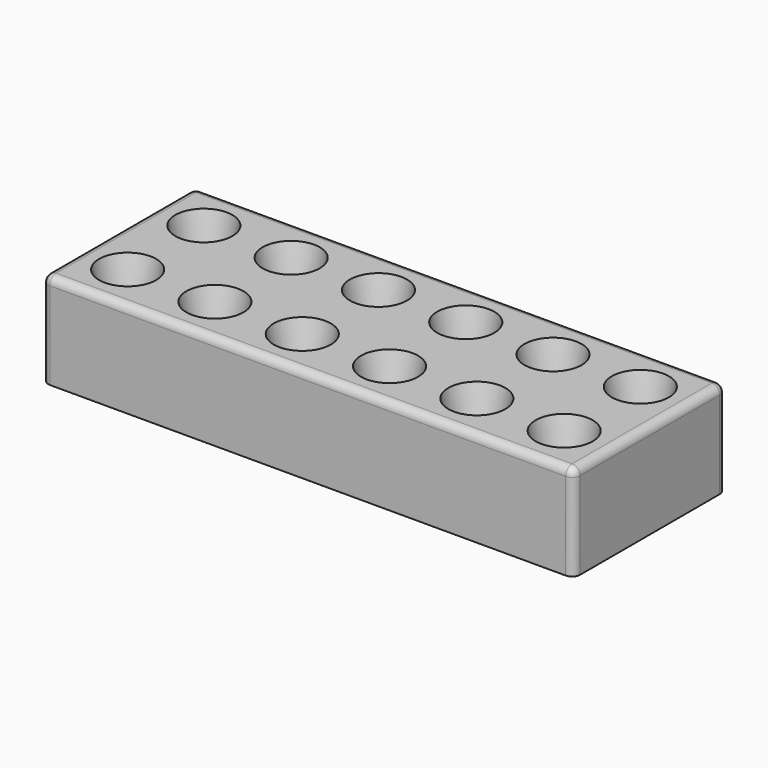
from build123d import *

# Parameters (mm, degrees)
ARRAY_X_COUNT = 6
ARRAY_X_PITCH = 11
ARRAY_Y_COUNT = 2
ARRAY_Y_PITCH = 12
BOX_W         = 67
BOX_H         = 24
BOX_DEPTH     = 12
FILLET_R      = 1


with BuildPart() as array:
    # Cone → Cone (revolve)
    with BuildSketch(Plane(origin=(6, 6, 4), x_dir=(1, 0, 0), z_dir=(0, -1, 0))):
        Polygon((0, 0), (2, 0), (4, 10), (0, 10), align=None)
    revolve(axis=Axis((6, 6, 4), (0, 0, 1)))

    # Array X: Array ×6


with BuildPart() as array_1:
    add(array.part)
    with Locations(*[(i * ARRAY_X_PITCH, 0, 0) for i in range(1, ARRAY_X_COUNT)]):
        add(array.part)

    # Array Y: Array ×2


with BuildPart() as array_2:
    add(array_1.part)
    with Locations(*[(0, i * ARRAY_Y_PITCH, 0) for i in range(1, ARRAY_Y_COUNT)]):
        add(array_1.part)


with BuildPart() as cut:
    # Box → Box (new body)
    with BuildSketch(Plane.XY):
        with Locations((33.5, 12)):
            Rectangle(BOX_W, BOX_H)
    extrude(amount=BOX_DEPTH)

    # Fillet
    fillet_edges = [cut.edges().sort_by_distance(p)[0] for p in [
        (0, 0, 6),
        (0, 12, 12),
        (0, 24, 6),
        (67, 0, 6),
        (67, 12, 12),
        (67, 24, 6),
        (33.5, 0, 12),
        (33.5, 24, 12),
    ]]
    fillet(fillet_edges, radius=FILLET_R)

    # Cut: cut Array
    add(array_2.part, mode=Mode.SUBTRACT)


solid = cut.part
